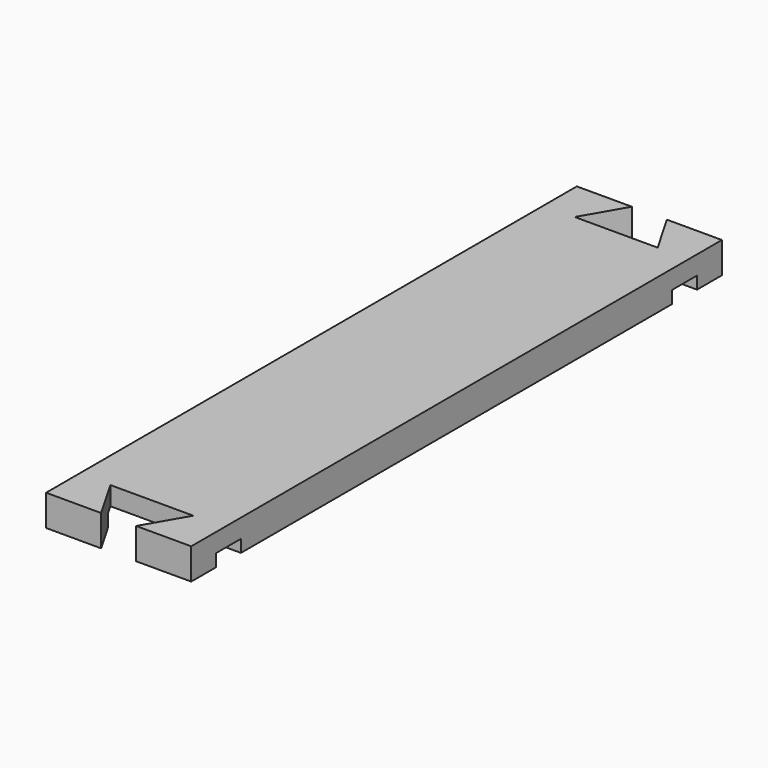
from build123d import *

# Parameters (mm, degrees)
F1_DEPTH = 19.05
F2_W     = 19.05
F2_H     = 7.62
F3_DEPTH = 88.901


with BuildPart() as f1:
    # F0 (on Top) → F1 (new body)
    with BuildSketch(Plane.XY):
        Polygon((44.45, -203.2), (44.45, 203.2), (10.735303, 203.2), (25.4, 177.8), (-25.4, 177.8), (-10.735303, 203.2), (-44.45, 203.2), (-44.45, -203.2), (-10.735303, -203.2), (-25.4, -177.8), (25.4, -177.8), (10.735303, -203.2), align=None)
    extrude(amount=F1_DEPTH)

    # F2 (on face) → F3 (cut, through all)
    with BuildSketch(Plane.YZ.offset(44.45)):
        with Locations((-174.625, 3.81)):
            Rectangle(F2_W, F2_H)
        with Locations((174.625, 3.81)):
            Rectangle(F2_W, F2_H)
    extrude(amount=-F3_DEPTH, mode=Mode.SUBTRACT)


solid = f1.part
